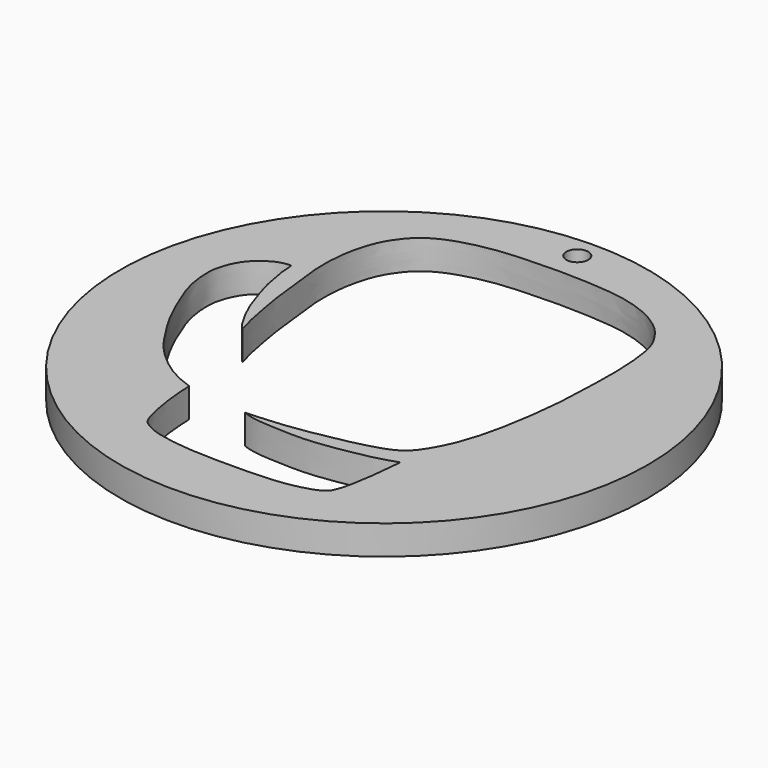
from build123d import *

# Parameters (mm, degrees)
F1_R     = 57.1352249245
F1_R_2   = 2.38125
F2_DEPTH = 6.35
F3_DEPTH = 6.35


with BuildPart() as f2:
    # F1 (on Top) → F2 (new body)
    with BuildSketch(Plane.XY):
        with Locations((-11.8687674403, 0)):
            Circle(F1_R)
        with Locations((-11.8687674403, 52.2754825652)):
            Circle(F1_R_2, mode=Mode.SUBTRACT)
    extrude(amount=F2_DEPTH)

    # F0 (on Top) → F3 (cut)
    with BuildSketch(Plane.XY):
        with BuildLine():
            add(Edge.make_bspline(
                [(-19.828883931, -27.6362691075), (-19.0911983707, -28.0051118876), (-16.6265805566, -28.5996740522), (-12.2563574265, -28.8465231195), (-5.60521492, -29.1046977112), (1.1255439378, -28.1468959434), (7.4998337406, -26.9494129758), (10.6048407711, -25.9344165559), (12.0151313022, -25.4738028357)],
                knots=[0, 0, 0, 0, 0.1280227538, 0.2814610853, 0.4680197849, 0.6593822503, 0.8434910585, 1, 1, 1, 1], degree=3))
            add(Edge.make_bspline(
                [(-39.3081009388, -4.0181647055), (-39.4023575198, -3.6063293716), (-39.6197540968, -2.6139277985), (-40.5138406384, 0.0840158882), (-40.9386272687, 3.1261941582), (-41.9373459989, 7.6203147523), (-42.5354089026, 14.7301754042), (-43.5845115018, 21.0766221035), (-43.2772808811, 28.4261293077), (-41.576103616, 34.4445174234), (-39.762237914, 37.4726133781), (-37.6308743857, 40.2200762977), (-34.2002818986, 42.6162732477), (-28.9561411713, 44.4342922371), (-22.596263283, 45.604228755), (-16.3696962731, 45.8609913636), (-9.3020690594, 46.046277894), (-2.8376759037, 45.7434782777), (3.4327756317, 45.1616014507), (7.859580587, 43.8817960564), (11.2964096674, 42.4272021764), (14.7500172304, 40.0634377665), (16.9069758449, 37.3652733471), (18.7300291516, 34.1888972938), (19.5135839735, 29.1054891774), (19.8475677223, 22.2800979313), (19.6170620053, 16.3397578278), (19.4641382353, 9.5251057838), (18.5396084075, 1.1403532144), (17.1310662006, -6.8150302018), (15.1531947671, -13.747210919), (12.0979933262, -19.5327475955), (9.1933430016, -22.6103298922), (2.7253038322, -24.516669526), (-4.2324684761, -25.9494246364), (-12.778114958, -27.3314963571), (-17.5711940953, -27.4794438865), (-19.828883931, -27.6362691075)],
                knots=[0, 0, 0, 0, 0.0144609257, 0.034878197, 0.0563868717, 0.0825960298, 0.1153407032, 0.1467737623, 0.18008844, 0.2105476142, 0.2333007243, 0.2556892633, 0.2804630712, 0.3093270801, 0.3404947707, 0.3712354252, 0.4037311901, 0.4352184417, 0.4659308995, 0.4920466194, 0.5156622205, 0.5405045867, 0.5631633076, 0.5861364433, 0.6138297639, 0.6459775213, 0.6759082451, 0.7077697091, 0.7435002635, 0.7784852932, 0.8116163435, 0.8424797994, 0.8671435332, 0.8981661194, 0.9314806693, 0.9674696853, 1, 1, 1, 1], degree=3))
            add(Edge.make_bspline(
                [(-47.3548397422, 19.2602649331), (-47.3240691693, 18.6073652657), (-47.259276456, 17.2325731492), (-46.8902091451, 14.8312655089), (-46.2974218315, 11.4955227047), (-45.3614374622, 8.3819164862), (-44.3350120801, 5.2436118883), (-43.067610512, 1.7963758705), (-41.1567207942, -1.5636856935), (-40.1785591148, -3.2405241192), (-39.5707753899, -3.7834994226), (-39.3081009388, -4.0181647055)],
                knots=[0, 0, 0, 0, 0.0954749237, 0.2010388104, 0.3258184598, 0.4484779716, 0.5707938461, 0.7022510332, 0.8359099449, 0.9290828902, 1, 1, 1, 1], degree=3))
            add(Edge.make_bspline(
                [(-33.2989729941, -25.9344165559), (-34.0849751373, -25.665503732), (-35.7602917908, -25.0933885461), (-38.7175906157, -23.5610922136), (-41.6450365144, -21.4924073297), (-45.7131721867, -17.8023372985), (-48.6457235638, -13.1785266083), (-51.7188079555, -8.3609525386), (-54.5783764318, -1.8552162695), (-56.454643986, 3.2340254009), (-56.9093063345, 7.7599811484), (-56.7438833602, 10.952473222), (-54.9764541855, 15.2753187268), (-52.5753939914, 17.307256554), (-50.3767731806, 18.8514015674), (-48.1929725182, 19.3250063674), (-47.5577978544, 19.2742007806), (-47.3548397422, 19.2602649331)],
                knots=[0, 0, 0, 0, 0.055033237, 0.1168609154, 0.182095562, 0.2619468994, 0.3422115824, 0.4245123496, 0.5159752079, 0.5966222827, 0.6681191346, 0.7297785579, 0.8024306677, 0.8632410278, 0.9195702197, 0.9699364443, 1, 1, 1, 1], degree=3))
            add(Edge.make_bspline(
                [(12.0151313022, -25.4738028357), (11.8766540562, -27.2045867404), (11.5610170133, -30.6040543314), (10.788566453, -36.4684496994), (9.5820000065, -40.7152366768), (8.4309859587, -41.660886991), (6.5018010886, -42.6317064203), (0.8891965067, -44.0017251154), (-8.0963343567, -44.2971652144), (-19.4410020159, -44.1745814904), (-25.0554404461, -43.1541304008), (-27.5046572476, -42.5051163234), (-29.2585493108, -41.5654251437), (-30.7074363978, -40.7997584672), (-31.6884793576, -38.5593198372), (-32.7139006413, -33.2805483106), (-32.9970659479, -30.4514201529), (-33.2555770795, -27.6894452933), (-33.2989729941, -25.9344165559)],
                knots=[0, 0, 0, 0, 0.0702269421, 0.146761628, 0.2099915968, 0.2452306892, 0.2884978879, 0.3609574618, 0.4559245918, 0.5611856069, 0.634008849, 0.6818409158, 0.7246656232, 0.7624873209, 0.8099225832, 0.8813307134, 0.9343452711, 1, 1, 1, 1], degree=3))
        make_face()
    extrude(amount=F3_DEPTH, mode=Mode.SUBTRACT)


solid = f2.part
